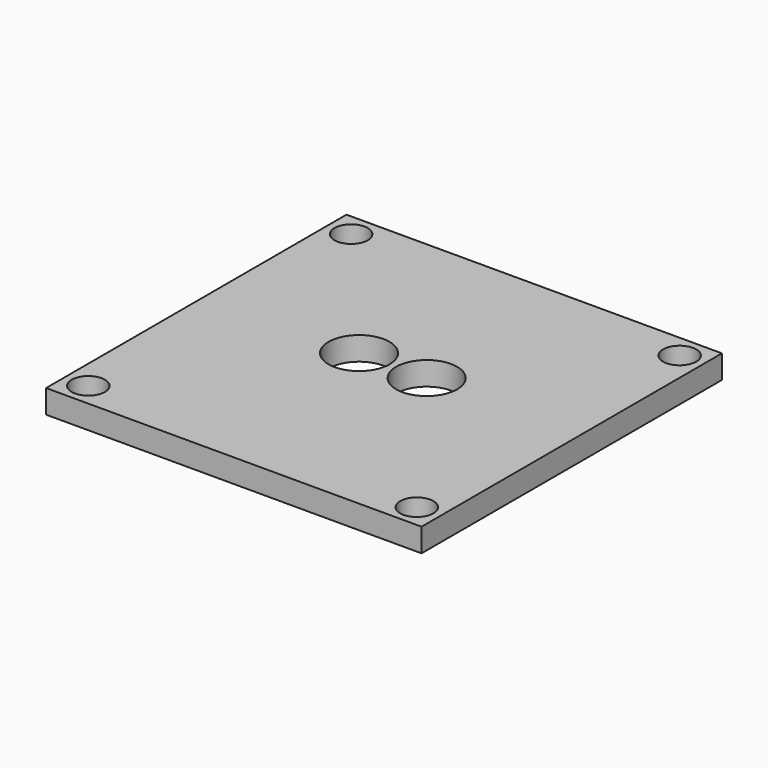
from build123d import *

# Parameters (mm, degrees)
F0_W     = 50.8
F0_H     = 50.8
F0_R     = 2.2479
F0_R_2   = 4.1275
F1_DEPTH = 3.175


with BuildPart() as f1:
    # F0 (on Top) → F1 (new body)
    with BuildSketch(Plane.XY):
        Rectangle(F0_W, F0_H)
        with Locations((-22.225, -22.225)):
            Circle(F0_R, mode=Mode.SUBTRACT)
        with Locations((22.225, -22.225)):
            Circle(F0_R, mode=Mode.SUBTRACT)
        with Locations((-4.572, 1.4986)):
            Circle(F0_R_2, mode=Mode.SUBTRACT)
        with Locations((-22.225, 22.225)):
            Circle(F0_R, mode=Mode.SUBTRACT)
        with Locations((4.572, 1.4986)):
            Circle(F0_R_2, mode=Mode.SUBTRACT)
        with Locations((22.225, 22.225)):
            Circle(F0_R, mode=Mode.SUBTRACT)
    extrude(amount=F1_DEPTH)


solid = f1.part
